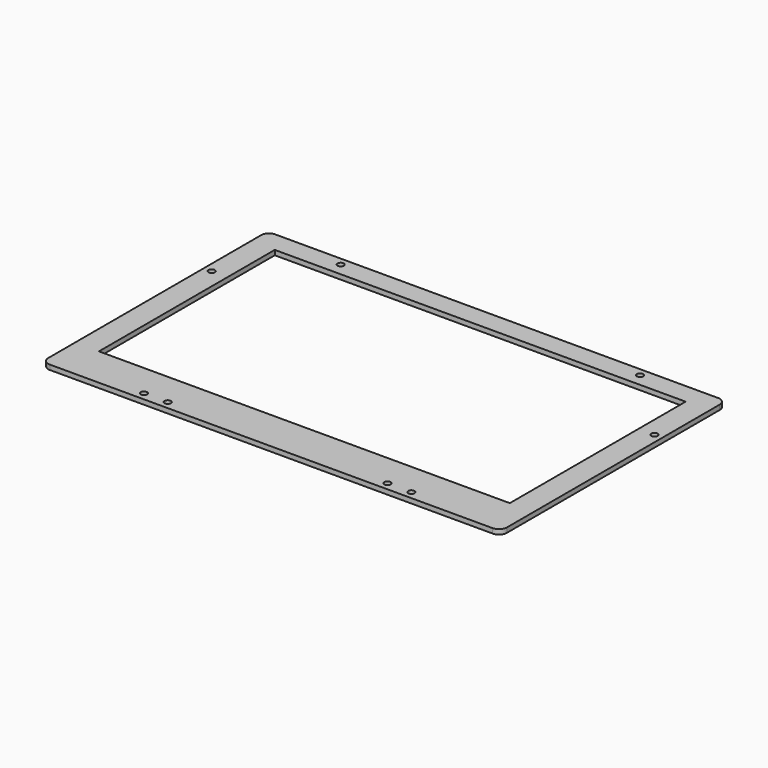
from build123d import *

# Parameters (mm, degrees)
F0_W     = 288
F0_H     = 177
F0_R     = 2
F0_W_2   = 258
F0_H_2   = 138
F1_DEPTH = 3
F2_R     = 5


with BuildPart() as f1:
    # F0 (on Top) → F1 (new body)
    with BuildSketch(Plane.XY):
        with Locations((0, 7.5)):
            Rectangle(F0_W, F0_H)
        with Locations((-84, -76)):
            Circle(F0_R, mode=Mode.SUBTRACT)
        with Locations((-69, -76)):
            Circle(F0_R, mode=Mode.SUBTRACT)
        with Locations((69, -76)):
            Circle(F0_R, mode=Mode.SUBTRACT)
        with Locations((84, -76)):
            Circle(F0_R, mode=Mode.SUBTRACT)
        with Locations((-139, 46)):
            Circle(F0_R, mode=Mode.SUBTRACT)
        with Locations((-94, 91)):
            Circle(F0_R, mode=Mode.SUBTRACT)
        with Locations((0, 14)):
            Rectangle(F0_W_2, F0_H_2, mode=Mode.SUBTRACT)
        with Locations((139, 46)):
            Circle(F0_R, mode=Mode.SUBTRACT)
        with Locations((94, 91)):
            Circle(F0_R, mode=Mode.SUBTRACT)
    extrude(amount=F1_DEPTH)

    # F2
    f2_edges = [f1.edges().sort_by_distance(p)[0] for p in [
        (-144, 96, 1.5),
        (-144, -81, 1.5),
        (144, -81, 1.5),
        (144, 96, 1.5),
    ]]
    fillet(f2_edges, radius=F2_R)


solid = f1.part
